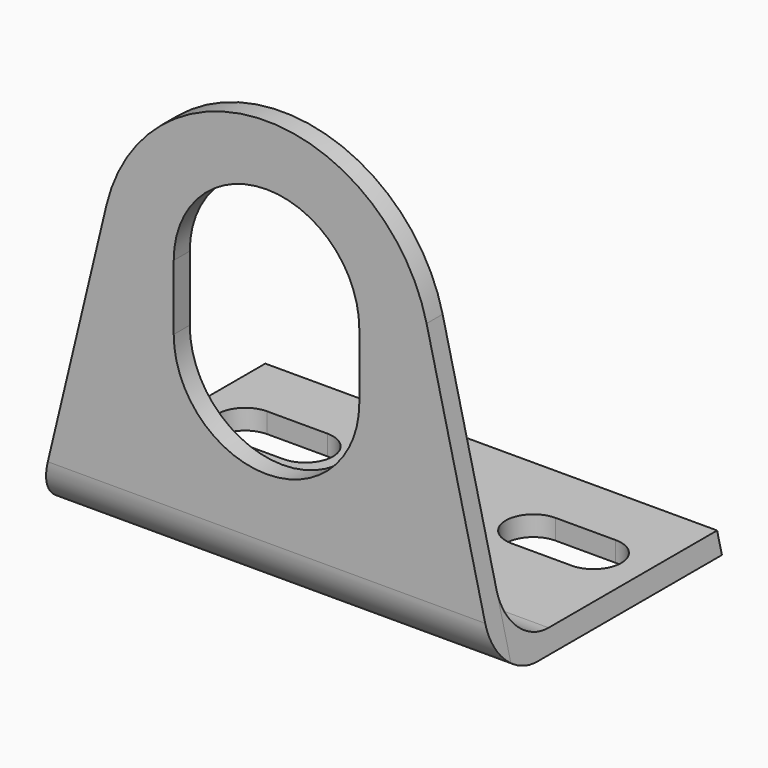
from build123d import *

# Parameters (mm, degrees)
F1_DEPTH = 2
F3_DEPTH = 26
F4_R     = 5
F6_DEPTH = 2.001


with BuildPart() as f1:
    # F0 (on Front) → F1 (new body)
    with BuildSketch(Plane.XZ):
        with BuildLine():
            Line((-15.958655, 29.411045), (-23, 0))
            Line((-23, 0), (23, 0))
            Line((23, 0), (15.958655, 29.411045))
            ThreePointArc((15.958655, 29.411045), (0, 42), (-15.958655, 29.411045))
        make_face()
        with BuildLine():
            Line((-9.25, 20.25), (-9.25, 26.75))
            ThreePointArc((-9.25, 26.75), (0, 36), (9.25, 26.75))
            Line((9.25, 26.75), (9.25, 20.25))
            ThreePointArc((9.25, 20.25), (0, 11), (-9.25, 20.25))
        make_face(mode=Mode.SUBTRACT)
    extrude(amount=F1_DEPTH)

    # F2 (on face) → F3 (join)
    with BuildSketch(Plane(origin=(0, 0, 0), x_dir=(-1, 0, 0), z_dir=(0, 1, 0))):
        Polygon((22.521177, 2), (-22.521177, 2), (-23, 0), (23, 0), align=None)
    extrude(amount=F3_DEPTH)

    # F4
    f4_edges = [f1.edges().sort_by_distance(p)[0] for p in [
        (0, -2, 0),
        (0, 0, 2),
    ]]
    fillet(f4_edges, radius=F4_R)

    # F5 (on face) → F6 (cut, through all)
    with BuildSketch(Plane.XY.offset(2)):
        with BuildLine():
            Line((17.371177, 19.8), (11.371177, 19.8))
            ThreePointArc((11.371177, 19.8), (8.621177, 17.05), (11.371177, 14.3))
            Line((11.371177, 14.3), (17.371177, 14.3))
            ThreePointArc((17.371177, 14.3), (20.121177, 17.05), (17.371177, 19.8))
        make_face()
        with BuildLine():
            Line((-17.371177, 14.3), (-11.371177, 14.3))
            ThreePointArc((-11.371177, 14.3), (-8.621177, 17.05), (-11.371177, 19.8))
            Line((-11.371177, 19.8), (-17.371177, 19.8))
            ThreePointArc((-17.371177, 19.8), (-20.121177, 17.05), (-17.371177, 14.3))
        make_face()
    extrude(amount=-F6_DEPTH, mode=Mode.SUBTRACT)


solid = f1.part
